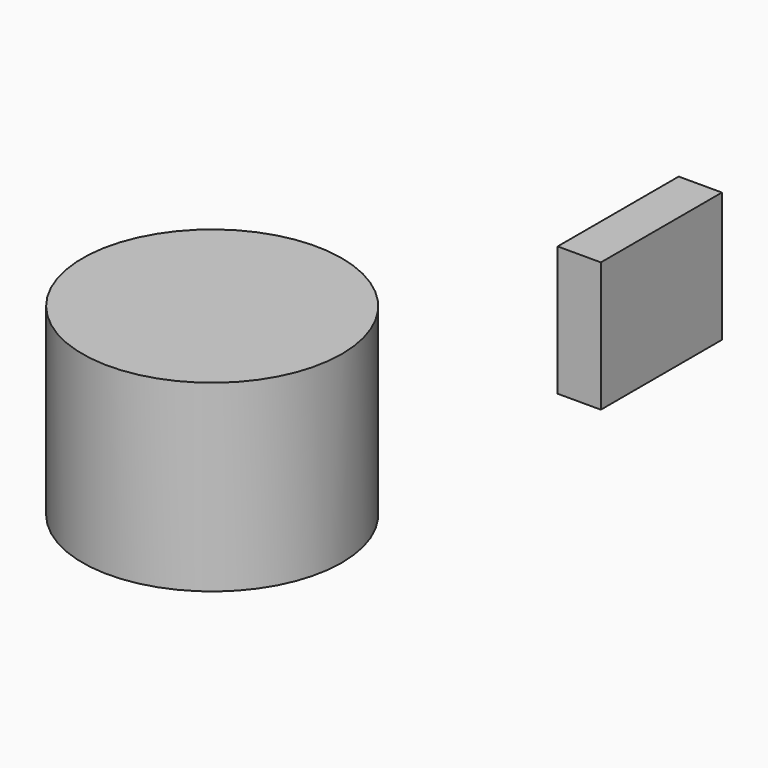
from build123d import *

# Parameters (mm, degrees)
F0_R     = 76.2
F1_DEPTH = 107.95
F2_W     = 88.9
F2_H     = 76.2
F3_DEPTH = 25.4


with BuildPart() as f1:
    # F0 (on Top) → F1 (new body)
    with BuildSketch(Plane.XY):
        Circle(F0_R)
    extrude(amount=F1_DEPTH)


with BuildPart() as f3:
    # F2 (on Right) → F3 (new body)
    with BuildSketch(Plane.YZ):
        with Locations((298.164604, -2.414942)):
            Rectangle(F2_W, F2_H)
    extrude(amount=F3_DEPTH)


solid = Compound([f1.part, f3.part])
